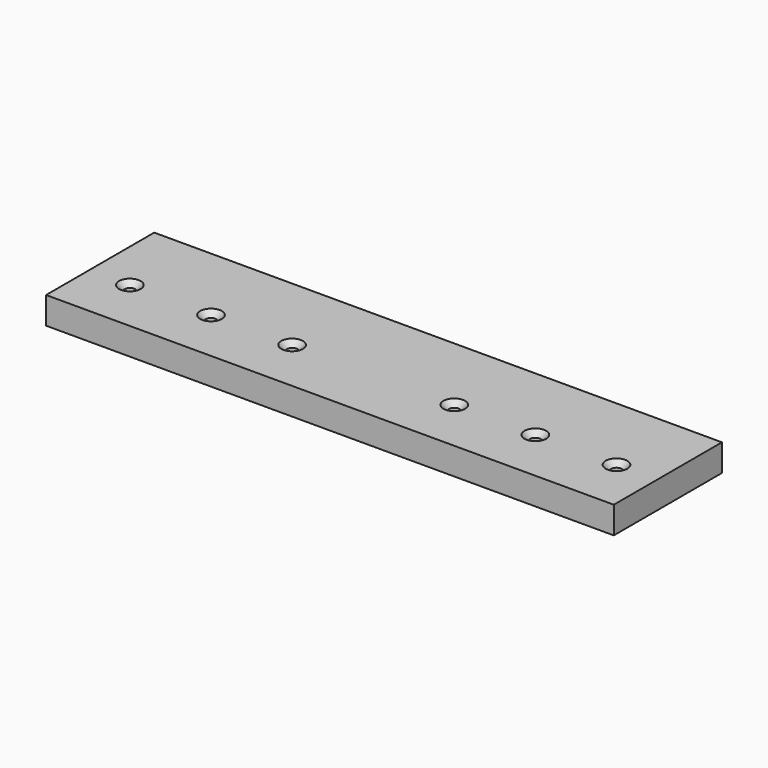
from build123d import *

# Parameters (mm, degrees)
F0_W     = 210
F0_H     = 50
F1_DEPTH = 10
F3_DEPTH = 10.001
F4_SIZE  = 2


with BuildPart() as f1:
    # F0 (on Top) → F1 (new body)
    with BuildSketch(Plane.XY):
        Rectangle(F0_W, F0_H)
    extrude(amount=F1_DEPTH)

    # F2 (on face) → F3 (cut, through all)
    with BuildSketch(Plane.XY.offset(10)):
        with BuildLine():
            ThreePointArc((-88, -5), (-90, -3), (-92, -5))
            Line((-92, -5), (-88, -5))
        make_face()
        with BuildLine():
            Line((-88, -5), (-92, -5))
            ThreePointArc((-92, -5), (-90, -7), (-88, -5))
        make_face()
        with BuildLine():
            ThreePointArc((-58, -5), (-60, -3), (-62, -5))
            Line((-62, -5), (-58, -5))
        make_face()
        with BuildLine():
            Line((-58, -5), (-62, -5))
            ThreePointArc((-62, -5), (-60, -7), (-58, -5))
        make_face()
        with BuildLine():
            ThreePointArc((-28, -5), (-30, -3), (-32, -5))
            Line((-32, -5), (-28, -5))
        make_face()
        with BuildLine():
            Line((-28, -5), (-32, -5))
            ThreePointArc((-32, -5), (-30, -7), (-28, -5))
        make_face()
        with BuildLine():
            ThreePointArc((32, -5), (30, -3), (28, -5))
            Line((28, -5), (32, -5))
        make_face()
        with BuildLine():
            Line((32, -5), (28, -5))
            ThreePointArc((28, -5), (30, -7), (32, -5))
        make_face()
        with BuildLine():
            ThreePointArc((62, -5), (60, -3), (58, -5))
            Line((58, -5), (62, -5))
        make_face()
        with BuildLine():
            Line((62, -5), (58, -5))
            ThreePointArc((58, -5), (60, -7), (62, -5))
        make_face()
        with BuildLine():
            Line((88, -5), (92, -5))
            ThreePointArc((92, -5), (90, -3), (88, -5))
        make_face()
        with BuildLine():
            ThreePointArc((88, -5), (90, -7), (92, -5))
            Line((92, -5), (88, -5))
        make_face()
    extrude(amount=-F3_DEPTH, mode=Mode.SUBTRACT)

    # F4
    f4_edges = [f1.edges().sort_by_distance(p)[0] for p in [
        (-88, -5, 10),
        (-58, -5, 10),
        (-28, -5, 10),
        (32, -5, 10),
        (62, -5, 10),
        (92, -5, 10),
    ]]
    chamfer(f4_edges, length=F4_SIZE)


solid = f1.part
